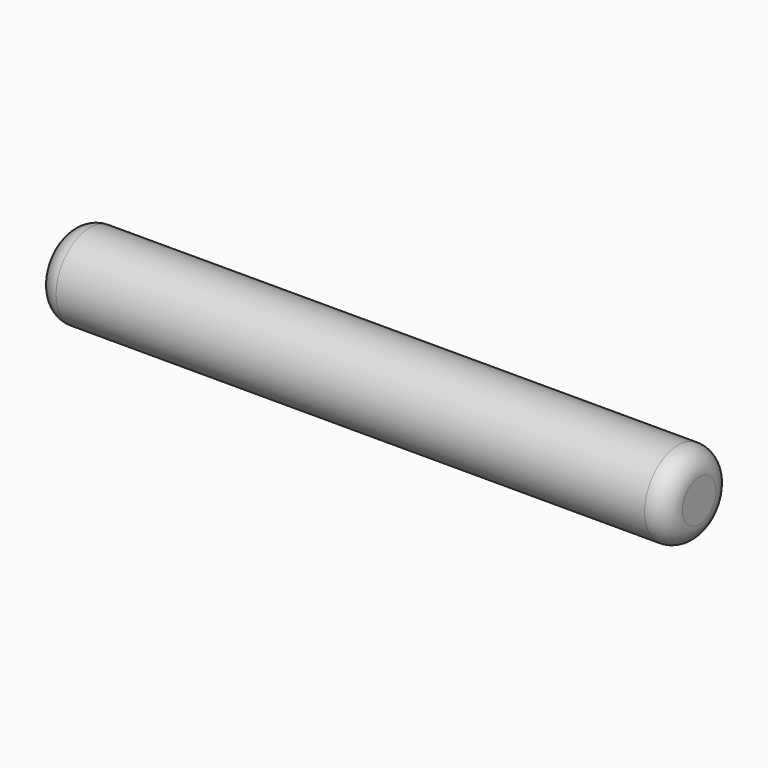
from build123d import *

# Parameters (mm, degrees)
F0_W = 30
F0_H = 2
F2_R = 1


with BuildPart() as f1:
    # F0 (on Front) → F1 (revolve)
    with BuildSketch(Plane.XZ):
        with Locations((15, 1)):
            Rectangle(F0_W, F0_H)
    revolve(axis=Axis((15, 0, 0), (1, 0, 0)))

    # F2
    f2_edges = [f1.edges().sort_by_distance(p)[0] for p in [
        (30, 0, -2),
        (0, 0, -2),
    ]]
    fillet(f2_edges, radius=F2_R)


solid = f1.part
